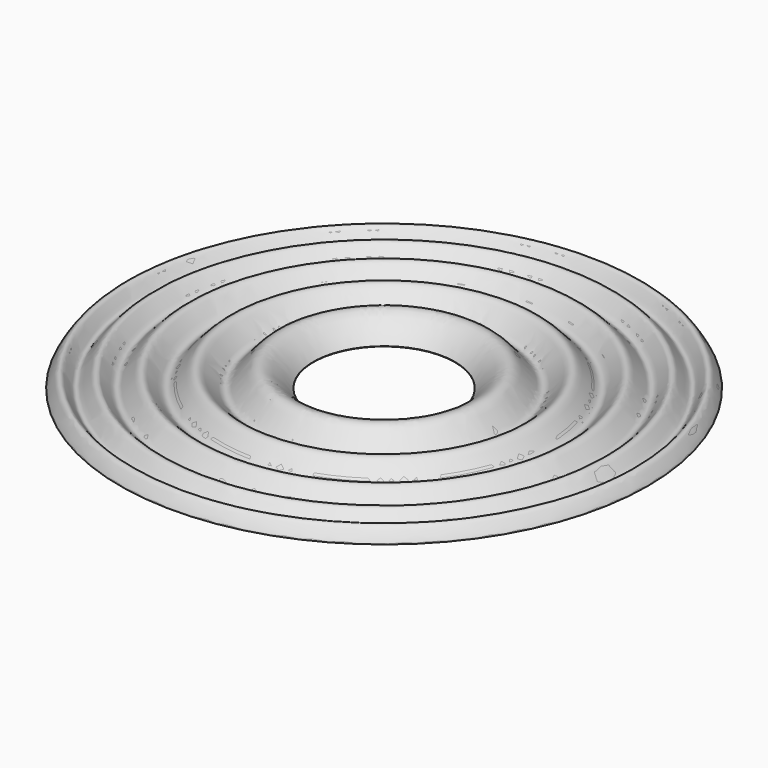
from build123d import *


with BuildPart() as f1:
    # F0 (on Front) → F1 (revolve)
    with BuildSketch(Plane.XZ):
        with BuildLine():
            Line((50.8, 0.254), (50.8, 0))
            add(Edge.make_bspline(
                [(50.8, 0), (51.457078115, 1.1724419804), (72.3906576888, 29.7973712651), (88.1294530805, -13.6813431133), (105.3808048097, 25.1294534772), (121.8860504462, -11.5856865639), (135.6654132891, 21.3645890202), (150.0092897734, -10.084202548), (160.9866659436, 19.01295254), (173.1575170359, -9.2257689377), (180.8024572719, 17.5438314026), (188.5211879981, 0.8116896541), (189.23, 0)],
                knots=[0, 0, 0, 0, 0.1173502325, 0.234700465, 0.3429505291, 0.4512005933, 0.5508123232, 0.650424053, 0.7420096465, 0.83359524, 0.9182499298, 1, 1, 1, 1], degree=3))
            Line((189.23, 0), (189.0782977677, 0.254))
            add(Edge.make_bspline(
                [(50.8, 0.254), (51.5204468445, 1.6416180916), (72.3611557072, 29.9511939079), (88.1366822631, -13.4027960831), (105.3789220684, 25.3770621868), (121.8865358887, -11.330044631), (135.6652105014, 21.6179133868), (150.0096862379, -9.8291295901), (160.9854069794, 19.2629437154), (173.1619895914, -8.9571391032), (180.7774493882, 17.7136889349), (188.5211879981, 1.2353691188), (189.0782977677, 0.254)],
                knots=[0, 0, 0, 0, 0.1173896787, 0.2347793574, 0.3430658088, 0.4513522602, 0.5509974737, 0.6506428866, 0.7422594942, 0.8338758734, 0.9185590191, 1, 1, 1, 1], degree=3))
        make_face()
    revolve(axis=Axis((0, 0, -2.7565898238), (0, 0, -1)))


solid = f1.part
